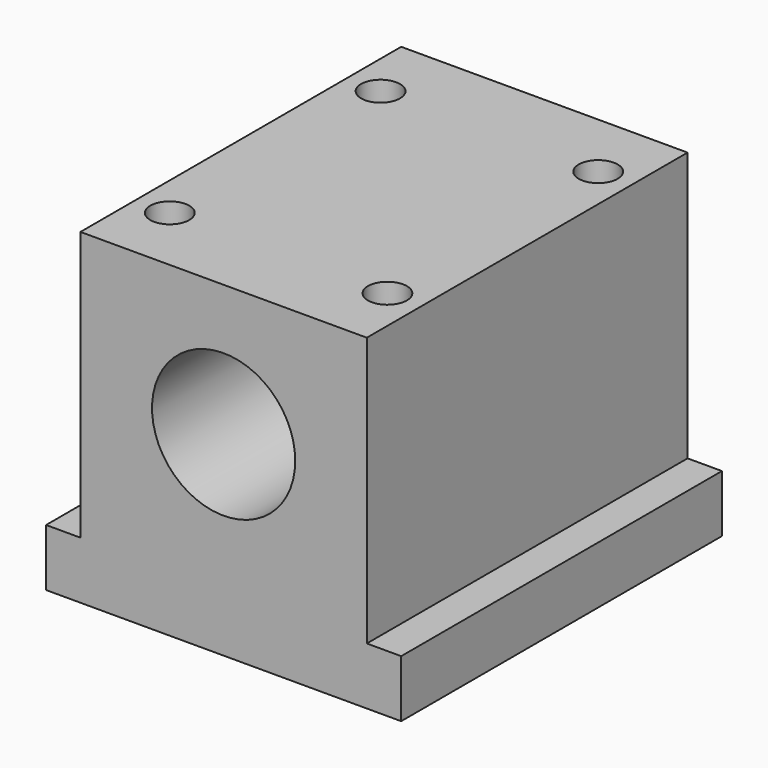
from build123d import *

# Parameters (mm, degrees)
F0_R     = 12.5
F1_DEPTH = 70
F3_D     = 6.8
F3_DEPTH = 20.75
F3_TIP   = 2.0429261047


with BuildPart() as f1:
    # F0 (on Front) → F1 (new body)
    with BuildSketch(Plane.XZ):
        Polygon((25, 23), (0, 23), (-25, 23), (-25, -24), (-31, -24), (-31, -34), (0, -34), (31, -34), (31, -24), (25, -24), align=None)
        Circle(F0_R, mode=Mode.SUBTRACT)
    extrude(amount=-F1_DEPTH)

    # F3
    with Locations(Plane.XY.offset(23)):
        with Locations((-19, 58), (-19, 12), (19, 12), (19, 58)):
            Hole(F3_D / 2, depth=F3_DEPTH)
            with Locations((0, 0, -(F3_DEPTH + F3_TIP / 2))):  # 118° drill point
                Cone(0, F3_D / 2, F3_TIP, mode=Mode.SUBTRACT)


solid = f1.part
